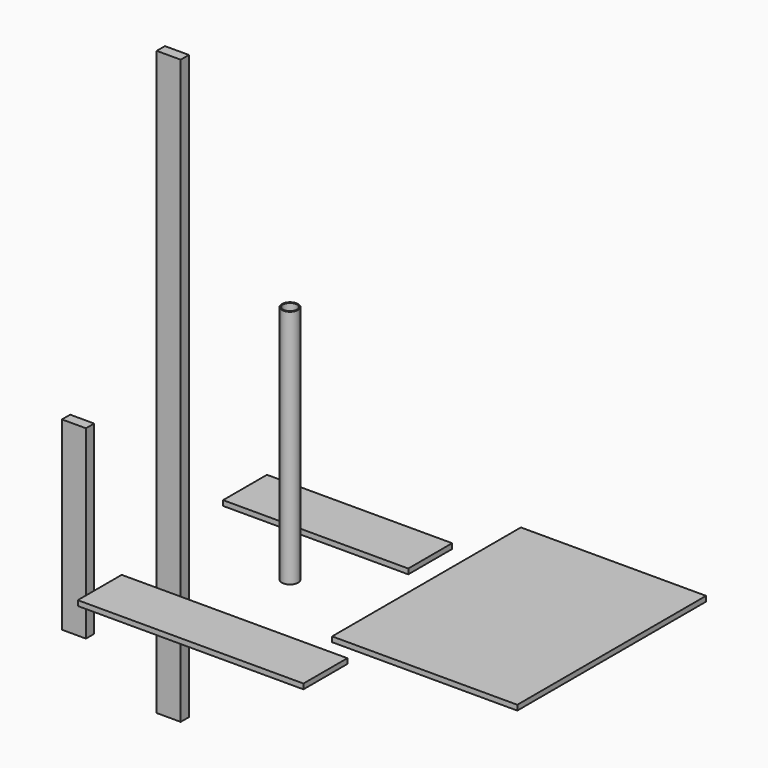
from build123d import *

# Parameters (mm, degrees)
F0_W      = 88.9
F0_H      = 2159
F1_DEPTH  = 38.1
F2_W      = 88.9
F2_H      = 685.8
F3_DEPTH  = 38.1
F4_W      = 685.8
F4_H      = 873.76
F5_DEPTH  = 19.05
F6_W      = 685.8
F6_H      = 203.2
F7_DEPTH  = 19.05
F8_W      = 835.66
F8_H      = 203.2
F9_DEPTH  = 19.05
F10_R     = 30.1625
F10_R_2   = 25.4
F11_DEPTH = 889


with BuildPart() as f1:
    # F0 (on Front) → F1 (new body)
    with BuildSketch(Plane.XZ):
        with Locations((-2.256267, 662.641678)):
            Rectangle(F0_W, F0_H)
    extrude(amount=F1_DEPTH)


with BuildPart() as f3:
    # F2 (on Front) → F3 (new body)
    with BuildSketch(Plane.XZ):
        with Locations((-353.044093, 83.516639)):
            Rectangle(F2_W, F2_H)
    extrude(amount=F3_DEPTH)


with BuildPart() as f5:
    # F4 (on Top) → F5 (new body)
    with BuildSketch(Plane.XY):
        with Locations((915.392447, 436.88)):
            Rectangle(F4_W, F4_H)
    extrude(amount=F5_DEPTH)


with BuildPart() as f7:
    # F6 (on Top) → F7 (new body)
    with BuildSketch(Plane.XY):
        with Locations((136.132513, 570.899233)):
            Rectangle(F6_W, F6_H)
    extrude(amount=F7_DEPTH)


with BuildPart() as f9:
    # F8 (on Top) → F9 (new body)
    with BuildSketch(Plane.XY):
        with Locations((274.416558, -180.806154)):
            Rectangle(F8_W, F8_H)
    extrude(amount=F9_DEPTH)


with BuildPart() as f11:
    # F10 (on Top) → F11 (new body)
    with BuildSketch(Plane.XY):
        with Locations((232.863665, 229.575485)):
            Circle(F10_R)
        with Locations((232.863665, 229.575485)):
            Circle(F10_R_2, mode=Mode.SUBTRACT)
    extrude(amount=F11_DEPTH)


solid = Compound([f1.part, f3.part, f5.part, f7.part, f9.part, f11.part])
